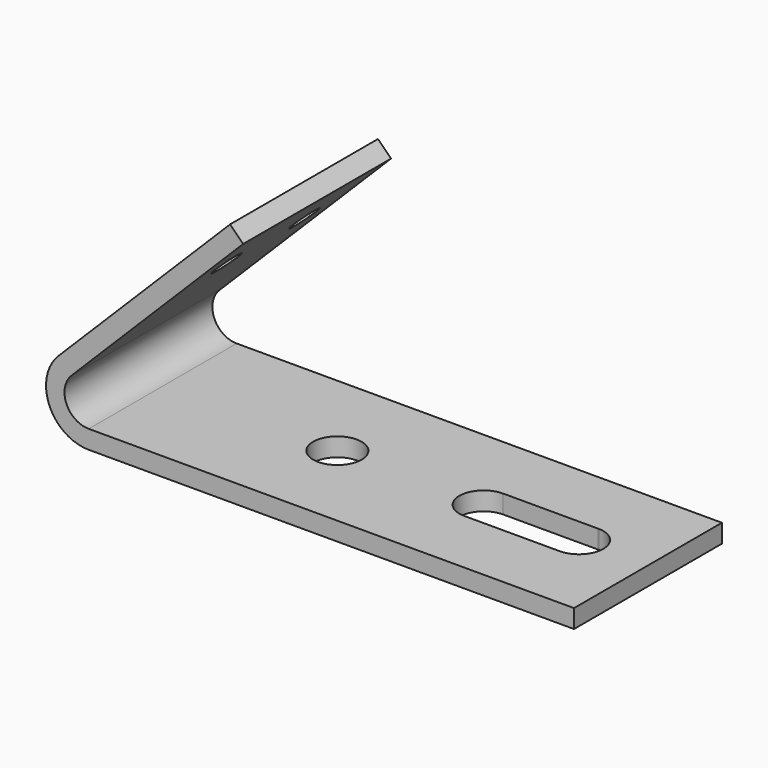
from build123d import *

# Parameters (mm, degrees)
F1_DEPTH = 19.05
F2_R     = 2.5
F3_DEPTH = 1.9
F4_R     = 1.5
F5_DEPTH = 1.9


with BuildPart() as f1:
    # F0 (on Front) → F1 (new body)
    with BuildSketch(Plane.XZ):
        with BuildLine():
            Line((-18.746637599, 0), (31.253362401, 0))
            Line((31.253362401, 0), (31.253362401, 1.9))
            Line((31.253362401, 1.9), (-18.746637599, 1.9))
            ThreePointArc((-18.746637599, 1.9), (-21.0563364303, 3.4432914191), (-20.514404552, 6.167766953))
            Line((-20.514404552, 6.167766953), (-2.8367350223, 23.8454364826))
            Line((-2.8367350223, 23.8454364826), (-4.1802379066, 25.1889393669))
            Line((-4.1802379066, 25.1889393669), (-21.8579074362, 7.5112698372))
            ThreePointArc((-21.8579074362, 7.5112698372), (-22.8117075421, 2.7161928976), (-18.746637599, 0))
        make_face()
    extrude(amount=F1_DEPTH)

    # F2 (on face) → F3 (cut, through all)
    with BuildSketch(Plane.XY.offset(1.9)):
        with Locations((-0.746637599, -9.525)):
            Circle(F2_R)
        with BuildLine():
            ThreePointArc((24.1869203746, -12.025), (26.6482556642, -9.525), (24.1869203746, -7.025))
            Line((24.1869203746, -7.025), (24.1089835763, -7.025))
            Line((24.1089835763, -7.025), (14.3277980387, -7.025))
            ThreePointArc((14.3277980387, -7.025), (11.8277980387, -9.525), (14.3277980387, -12.025))
            Line((14.3277980387, -12.025), (24.1869203746, -12.025))
        make_face()
        with BuildLine():
            Line((24.1089835763, -7.025), (24.1869203746, -7.025))
            ThreePointArc((24.1869203746, -7.025), (24.1479519755, -7.0246963112), (24.1089835763, -7.025))
        make_face()
    extrude(amount=-F3_DEPTH, mode=Mode.SUBTRACT)

    # F4 (on face) → F5 (cut, through all)
    with BuildSketch(Plane(origin=(-14.6845886367, 0, 14.6845886367), x_dir=(0, -1, 0), z_dir=(-0.7071067812, 0, 0.7071067812))):
        with Locations((14.55, 7.3553952665)):
            Circle(F4_R)
        with Locations((4.5, 7.3553952665)):
            Circle(F4_R)
    extrude(amount=-F5_DEPTH, mode=Mode.SUBTRACT)


solid = f1.part
